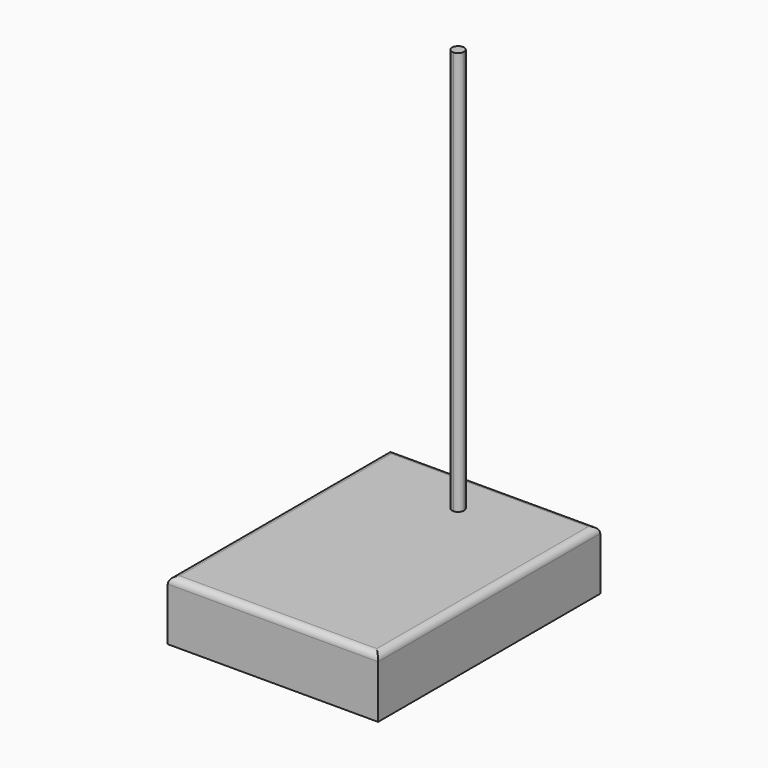
from build123d import *

# Parameters (mm, degrees)
F0_W     = 158.75
F0_H     = 209.55
F1_DEPTH = 45
F3_DEPTH = 304.8
F4_R     = 5.08


with BuildPart() as f1:
    # F0 (on Top) → F1 (new body)
    with BuildSketch(Plane.XY):
        Rectangle(F0_W, F0_H)
    extrude(amount=F1_DEPTH)

    # F2 (on face) → F3 (join)
    with BuildSketch(Plane.XY.offset(45)):
        with BuildLine():
            Line((0, 69.9373111129), (0, 74.4373111129))
            ThreePointArc((0, 74.4373111129), (-4.5, 69.9373111129), (0, 65.4373111129))
            Line((0, 65.4373111129), (0, 69.9373111129))
        make_face()
        with BuildLine():
            ThreePointArc((4.5, 69.9373111129), (3.1819805153, 73.1192916282), (0, 74.4373111129))
            Line((0, 74.4373111129), (0, 69.9373111129))
            Line((0, 69.9373111129), (0, 65.4373111129))
            ThreePointArc((0, 65.4373111129), (3.1819805153, 66.7553305975), (4.5, 69.9373111129))
        make_face()
    extrude(amount=F3_DEPTH)

    # F4
    f4_edges = [f1.edges().sort_by_distance(p)[0] for p in [
        (79.375, 0, 45),
        (0, -104.775, 45),
        (-79.375, 0, 45),
        (0, 104.775, 45),
    ]]
    fillet(f4_edges, radius=F4_R)


solid = f1.part
